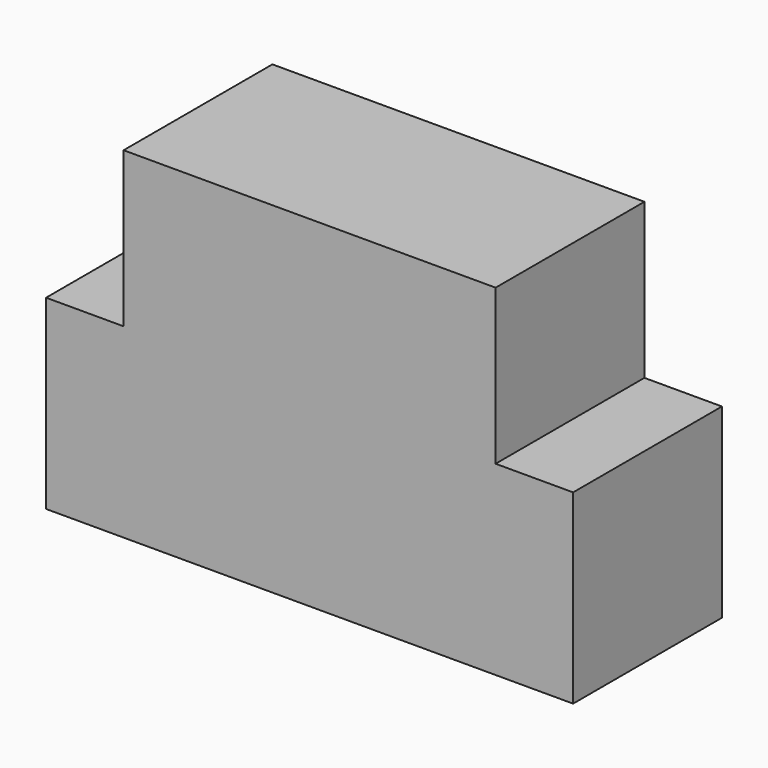
from build123d import *

# Parameters (mm, degrees)
F0_W     = 1.2
F0_H     = 0.5
F1_DEPTH = 0.3
F2_SCALE = 15


with BuildPart() as f1:
    # F0 (on Front) → F1 (new body, symmetric)
    with BuildSketch(Plane.XZ):
        Polygon((-0.6, 0), (-0.85, 0), (-0.85, -0.6), (0.85, -0.6), (0.85, 0), (0.6, 0), align=None)
        with Locations((0, 0.25)):
            Rectangle(F0_W, F0_H)
    extrude(amount=F1_DEPTH, both=True)


with BuildPart() as f1_1:
    # F2: moved
    add(f1.part.scale(F2_SCALE))


solid = f1_1.part
